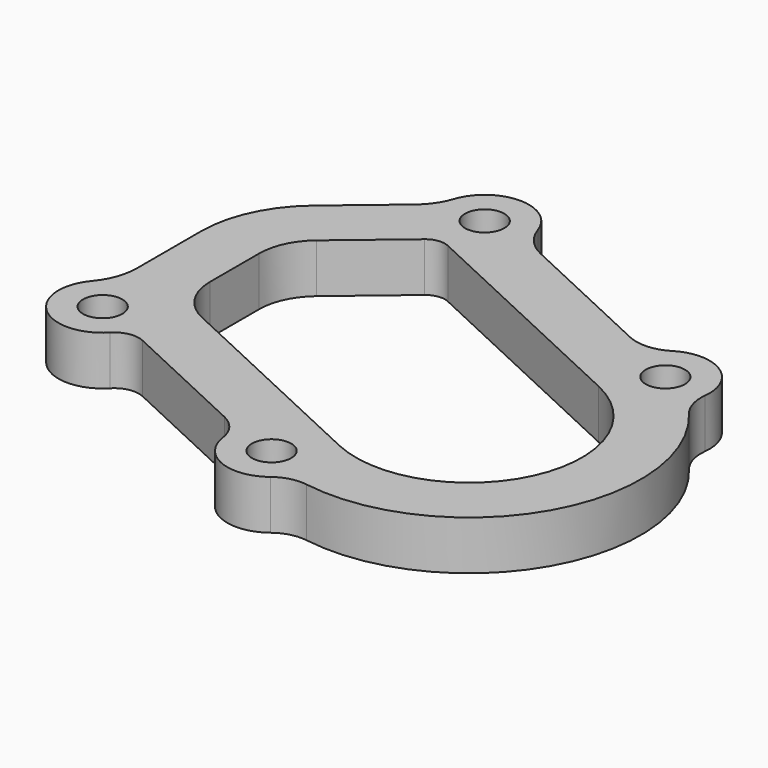
from build123d import *

# Parameters (mm, degrees)
F0_R     = 4
F1_DEPTH = 10


with BuildPart() as f1:
    # F0 (on Top) → F1 (new body)
    with BuildSketch(Plane.XY):
        with BuildLine():
            ThreePointArc((-26.004836, 50.744481), (-29.364427, 53.241079), (-31.466688, 56.860521))
            ThreePointArc((-31.466688, 56.860521), (-40.021392, 62.999975), (-48.546814, 56.819923))
            ThreePointArc((-48.546814, 56.819923), (-49.958151, 53.951048), (-52.100211, 51.577464))
            Line((-52.100211, 51.577464), (-64.597565, 41.090939))
            ThreePointArc((-64.597565, 41.090939), (-70.796149, 33.012787), (-73, 23.071859))
            Line((-73, 23.071859), (-73, 6.784049))
            ThreePointArc((-73, 6.784049), (-73.749196, 2.521584), (-75.906977, -1.229933))
            ThreePointArc((-75.906977, -1.229933), (-75.004892, -13.703826), (-62.507305, -13.232569))
            ThreePointArc((-62.507305, -13.232569), (-59.800326, -11.770236), (-56.747925, -12.156235))
            Line((-56.747925, -12.156235), (-30.138385, -24.564468))
            ThreePointArc((-30.138385, -24.564468), (-27.301354, -26.880357), (-25.910214, -30.268102))
            ThreePointArc((-25.910214, -30.268102), (-20.393722, -37.335626), (-11.509418, -36.131165))
            ThreePointArc((-11.509418, -36.131165), (-8.628264, -34.728078), (-5.427206, -34.57666))
            ThreePointArc((-5.427206, -34.57666), (30.444443, -17.266613), (26.889595, 22.404233))
            ThreePointArc((26.889595, 22.404233), (25.241111, 25.480297), (24.939379, 28.957168))
            ThreePointArc((24.939379, 28.957168), (20.83465, 37.59119), (11.274816, 37.659806))
            ThreePointArc((11.274816, 37.659806), (7.237394, 36.386641), (3.079426, 37.182267))
            Line((3.079426, 37.182267), (-26.004836, 50.744481))
        make_face()
        with Locations((-69, -7)):
            Circle(F0_R, mode=Mode.SUBTRACT)
        with Locations((-17, -29)):
            Circle(F0_R, mode=Mode.SUBTRACT)
        with BuildLine():
            ThreePointArc((9.72022, 20.845079), (20.845079, -9.72022), (-9.72022, -20.845079))
            Line((-9.72022, -20.845079), (-54.422636, 0))
            ThreePointArc((-54.422636, 0), (-59.215961, 4.203633), (-61, 10.324393))
            Line((-61, 10.324393), (-61, 22.849075))
            ThreePointArc((-61, 22.849075), (-59.875693, 27.920494), (-56.713451, 32.041609))
            Line((-56.713451, 32.041609), (-43.511656, 43.11923))
            ThreePointArc((-43.511656, 43.11923), (-41.462611, 44.020831), (-39.250033, 43.680283))
            Line((-39.250033, 43.680283), (9.72022, 20.845079))
        make_face(mode=Mode.SUBTRACT)
        with Locations((-40, 54)):
            Circle(F0_R, mode=Mode.SUBTRACT)
        with Locations((16, 30)):
            Circle(F0_R, mode=Mode.SUBTRACT)
    extrude(amount=F1_DEPTH)


solid = f1.part
